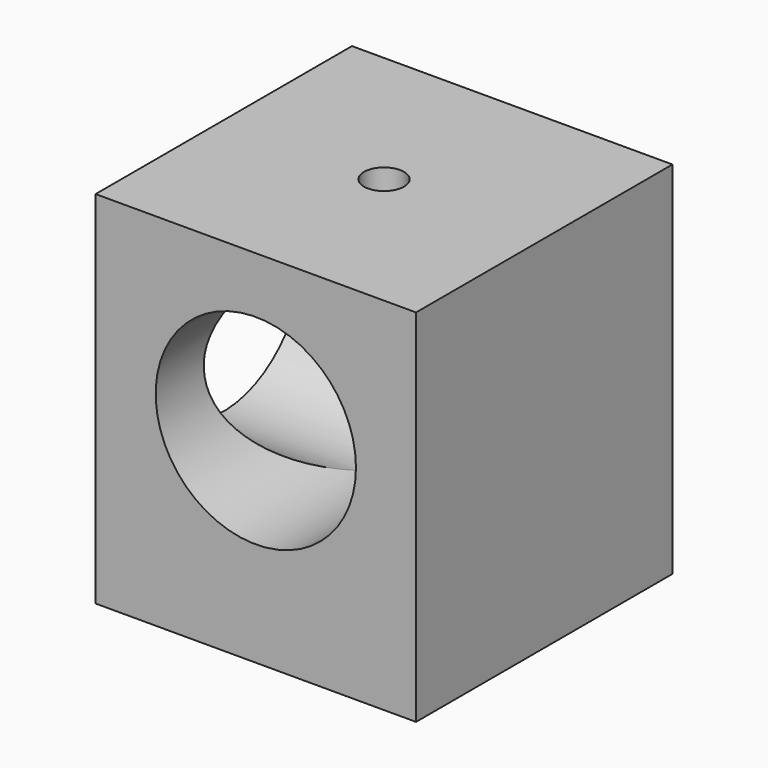
from build123d import *

# Parameters (mm, degrees)
F0_W     = 40
F0_H     = 40
F1_DEPTH = 45
F3_R     = 12.5
F4_DEPTH = 30
F2_R     = 12.5
F5_DEPTH = 30
F6_R     = 2.5
F7_DEPTH = 45.001


with BuildPart() as f1:
    # F0 (on Top) → F1 (new body)
    with BuildSketch(Plane.XY):
        with Locations((1.391534, -6.178061)):
            Rectangle(F0_W, F0_H)
    extrude(amount=F1_DEPTH)

    # F3 (on face) → F4 (cut)
    with BuildSketch(Plane.XZ.offset(26.178061)):
        with Locations((1.391534, 25.5)):
            Circle(F3_R)
    extrude(amount=-F4_DEPTH, mode=Mode.SUBTRACT)

    # F2 (on face) → F5 (cut)
    with BuildSketch(Plane(origin=(-18.608466, 0, 0), x_dir=(0, -1, 0), z_dir=(-1, 0, 0))):
        with Locations((6.178061, 25.5)):
            Circle(F2_R)
    extrude(amount=-F5_DEPTH, mode=Mode.SUBTRACT)

    # F6 (on face) → F7 (cut, through all)
    with BuildSketch(Plane.XY.offset(45)):
        with Locations((1.391534, -6.178061)):
            Circle(F6_R)
    extrude(amount=-F7_DEPTH, mode=Mode.SUBTRACT)


solid = f1.part
